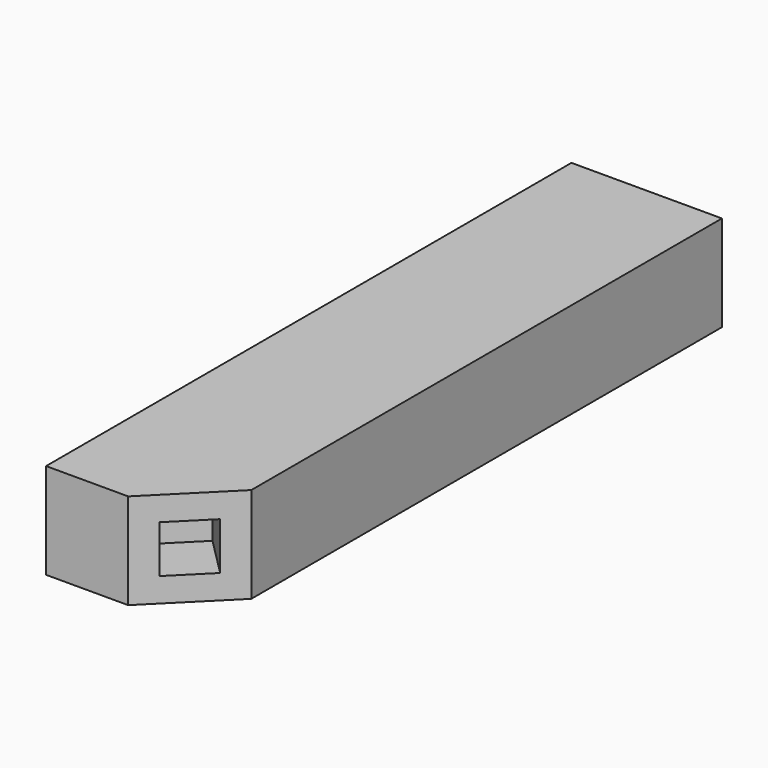
from build123d import *

# Parameters (mm, degrees)
F0_W     = 139.7
F0_H     = 88.9
F1_DEPTH = 609.6
F2_SIZE  = 63.5
F3_W     = 44.45
F3_H     = 44.003254
F4_DEPTH = 50.8


with BuildPart() as f1:
    # F0 (on Front) → F1 (new body)
    with BuildSketch(Plane.XZ):
        with Locations((69.85, 44.45)):
            Rectangle(F0_W, F0_H)
    extrude(amount=F1_DEPTH)

    # F2
    f2_edges = [f1.edges().sort_by_distance(p)[0] for p in [
        (139.7, -609.6, 44.45),
    ]]
    chamfer(f2_edges, length=F2_SIZE)

    # F3 (on face) → F4 (cut)
    with BuildSketch(Plane(origin=(342.9, -342.9, 0), x_dir=(0.707107, 0.707107, 0), z_dir=(0.707107, -0.707107, 0))):
        with Locations((-332.269476, 44.45)):
            Rectangle(F3_W, F3_H)
    extrude(amount=-F4_DEPTH, mode=Mode.SUBTRACT)


solid = f1.part
